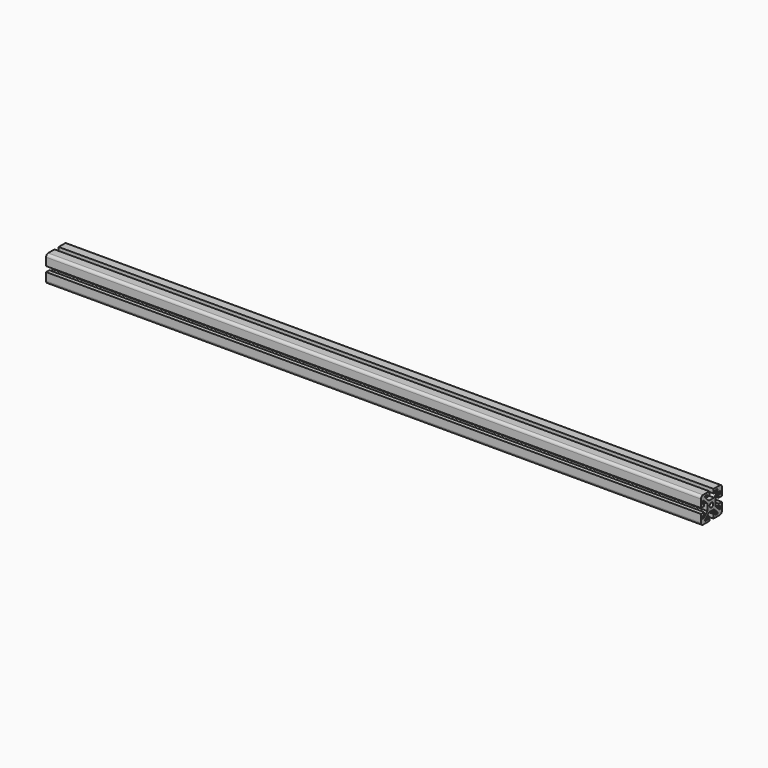
from build123d import *

# Parameters (mm, degrees)
F0_R     = 3.4
F1_DEPTH = 1000


with BuildPart() as f1:
    # F0 (on Right) → F1 (new body)
    with BuildSketch(Plane.YZ):
        with BuildLine():
            Line((5, 7.8), (-5, 7.8))
            Line((-5, 7.8), (-12, 14.8))
            Line((-12, 14.8), (-12, 16.833537))
            Line((-12, 16.833537), (-8, 16.833537))
            Line((-8, 16.833537), (-8, 13.833537))
            Line((-8, 13.833537), (-4, 13.833537))
            Line((-4, 13.833537), (-4, 20))
            Line((-4, 20), (-16, 20))
            ThreePointArc((-16, 20), (-18.828427, 18.828427), (-20, 16))
            Line((-20, 16), (-20, 4))
            Line((-20, 4), (-13.833537, 4))
            Line((-13.833537, 4), (-13.833537, 8))
            Line((-13.833537, 8), (-16.833537, 8))
            Line((-16.833537, 8), (-16.833537, 12))
            Line((-16.833537, 12), (-14.8, 12))
            Line((-14.8, 12), (-7.8, 5))
            Line((-7.8, 5), (-7.8, -5))
            Line((-7.8, -5), (-14.8, -12))
            Line((-14.8, -12), (-16.833537, -12))
            Line((-16.833537, -12), (-16.833537, -8))
            Line((-16.833537, -8), (-13.833537, -8))
            Line((-13.833537, -8), (-13.833537, -4))
            Line((-13.833537, -4), (-20, -4))
            Line((-20, -4), (-20, -16))
            ThreePointArc((-20, -16), (-18.828427, -18.828427), (-16, -20))
            Line((-16, -20), (-4, -20))
            Line((-4, -20), (-4, -13.833537))
            Line((-4, -13.833537), (-8, -13.833537))
            Line((-8, -13.833537), (-8, -16.833537))
            Line((-8, -16.833537), (-12, -16.833537))
            Line((-12, -16.833537), (-12, -14.8))
            Line((-12, -14.8), (-5, -7.8))
            Line((-5, -7.8), (5, -7.8))
            Line((5, -7.8), (12, -14.8))
            Line((12, -14.8), (12, -16.833537))
            Line((12, -16.833537), (8, -16.833537))
            Line((8, -16.833537), (8, -13.833537))
            Line((8, -13.833537), (4, -13.833537))
            Line((4, -13.833537), (4, -20))
            Line((4, -20), (16, -20))
            ThreePointArc((16, -20), (18.828427, -18.828427), (20, -16))
            Line((20, -16), (20, -4))
            Line((20, -4), (13.833537, -4))
            Line((13.833537, -4), (13.833537, -8))
            Line((13.833537, -8), (16.833537, -8))
            Line((16.833537, -8), (16.833537, -12))
            Line((16.833537, -12), (14.8, -12))
            Line((14.8, -12), (7.8, -5))
            Line((7.8, -5), (7.8, 5))
            Line((7.8, 5), (14.8, 12))
            Line((14.8, 12), (16.833537, 12))
            Line((16.833537, 12), (16.833537, 8))
            Line((16.833537, 8), (13.833537, 8))
            Line((13.833537, 8), (13.833537, 4))
            Line((13.833537, 4), (20, 4))
            Line((20, 4), (20, 16))
            ThreePointArc((20, 16), (18.828427, 18.828427), (16, 20))
            Line((16, 20), (4, 20))
            Line((4, 20), (4, 13.833537))
            Line((4, 13.833537), (8, 13.833537))
            Line((8, 13.833537), (8, 16.833537))
            Line((8, 16.833537), (12, 16.833537))
            Line((12, 16.833537), (12, 14.8))
            Line((12, 14.8), (5, 7.8))
        make_face()
        Circle(F0_R, mode=Mode.SUBTRACT)
    extrude(amount=F1_DEPTH)


solid = f1.part
